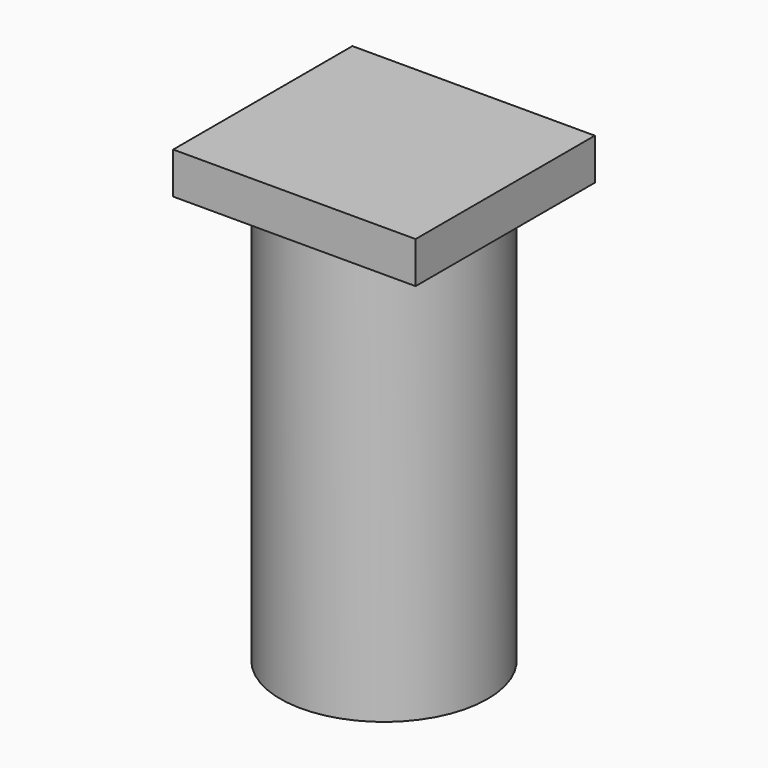
from build123d import *

# Parameters (mm, degrees)
SKETCH_R     = 7.5
PAD_DEPTH    = 30
SKETCH001_W  = 17.539976
SKETCH001_H  = 16.208446
PAD001_DEPTH = 3


with BuildPart() as part:
    # Sketch → Pad (new body)
    with BuildSketch(Plane.XY):
        Circle(SKETCH_R)
    extrude(amount=PAD_DEPTH)

    # Sketch001 → Pad001 (join)
    with BuildSketch(Plane.XY.offset(30)):
        Rectangle(SKETCH001_W, SKETCH001_H)
    extrude(amount=PAD001_DEPTH)


solid = part.part
